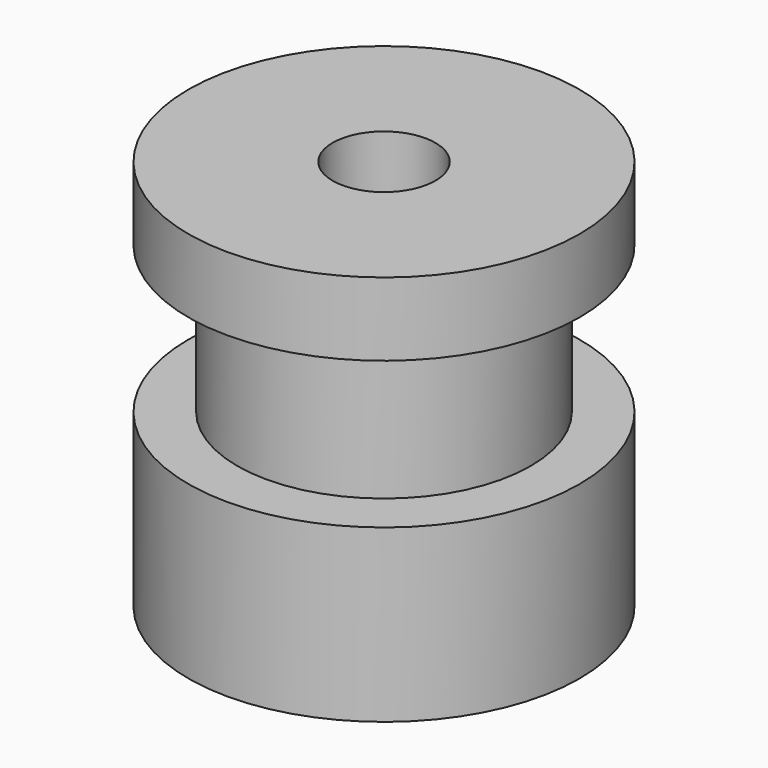
from build123d import *

# Parameters (mm, degrees)
F3_D           = 4.2
F3_CBORE_D     = 11.85
F3_CBORE_DEPTH = 6


with BuildPart() as f1:
    # F0 (on Front) → F1 (revolve)
    with BuildSketch(Plane.XZ):
        Polygon((8, 13), (8, 16), (0, 16), (0, 0), (8, 0), (8, 7), (6, 7), (6, 13), align=None)
    revolve(axis=Axis((0, 0, 8), (0, 0, 1)))

    # F3 (through all)
    with Locations(Plane(origin=(0, 0, 0), x_dir=(1, 0, 0), z_dir=(0, 0, -1))):
        with Locations((0, 0)):
            CounterBoreHole(F3_D / 2, F3_CBORE_D / 2, F3_CBORE_DEPTH)


solid = f1.part
